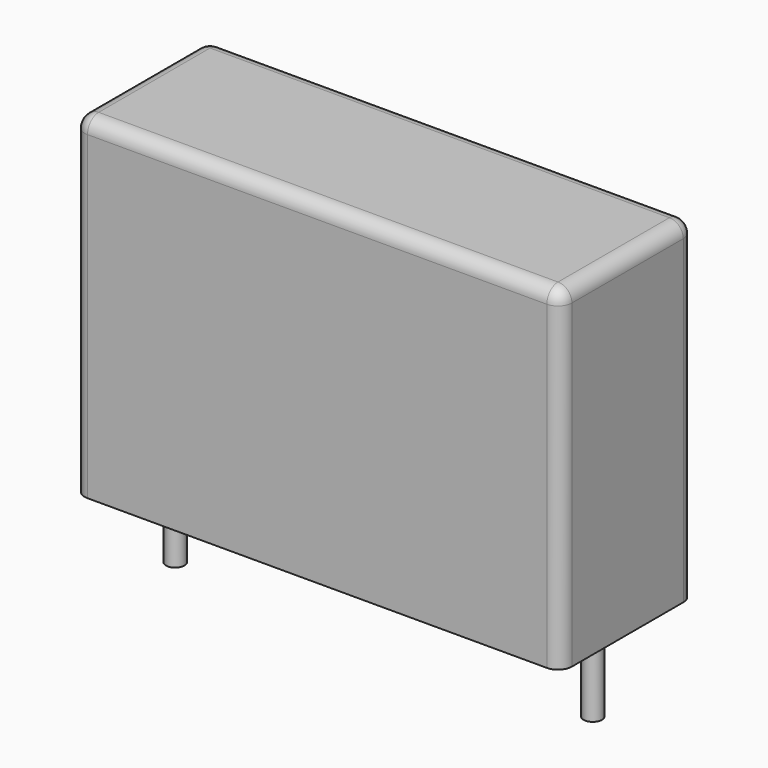
from build123d import *

# Parameters (mm, degrees)
CYLINDER001_R     = 0.33
CYLINDER001_DEPTH = 3
CYLINDER_R        = 0.33
CYLINDER_DEPTH    = 3
BOX_W             = 17.5
BOX_H             = 6
BOX_DEPTH         = 12
FILLET_R          = 0.5


with BuildPart() as pin2:
    # Cylinder001 → Cylinder001 (new body)
    with BuildSketch(Plane(origin=(7.5, 0, -3), x_dir=(1, 0, 0), z_dir=(0, 0, 1))):
        Circle(CYLINDER001_R)
    extrude(amount=CYLINDER001_DEPTH)


with BuildPart() as pin1:
    # Cylinder → Cylinder (new body)
    with BuildSketch(Plane(origin=(-7.5, 0, -3), x_dir=(1, 0, 0), z_dir=(0, 0, 1))):
        Circle(CYLINDER_R)
    extrude(amount=CYLINDER_DEPTH)


with BuildPart() as obj1:
    # Box → Box (new body)
    with BuildSketch(Plane(origin=(-8.75, -3, 0), x_dir=(1, 0, 0), z_dir=(0, 0, 1))):
        with Locations((8.75, 3)):
            Rectangle(BOX_W, BOX_H)
    extrude(amount=BOX_DEPTH)

    # Fillet
    fillet_edges = [obj1.edges().sort_by_distance(p)[0] for p in [
        (-8.75, -3, 6),
        (-8.75, 0, 12),
        (-8.75, 3, 6),
        (8.75, -3, 6),
        (8.75, 0, 12),
        (8.75, 3, 6),
        (0, -3, 12),
        (0, 3, 12),
    ]]
    fillet(fillet_edges, radius=FILLET_R)

    # Fusion: union Pin1
    add(pin1.part)

    # Fusion001: union Pin2
    add(pin2.part)


solid = obj1.part
